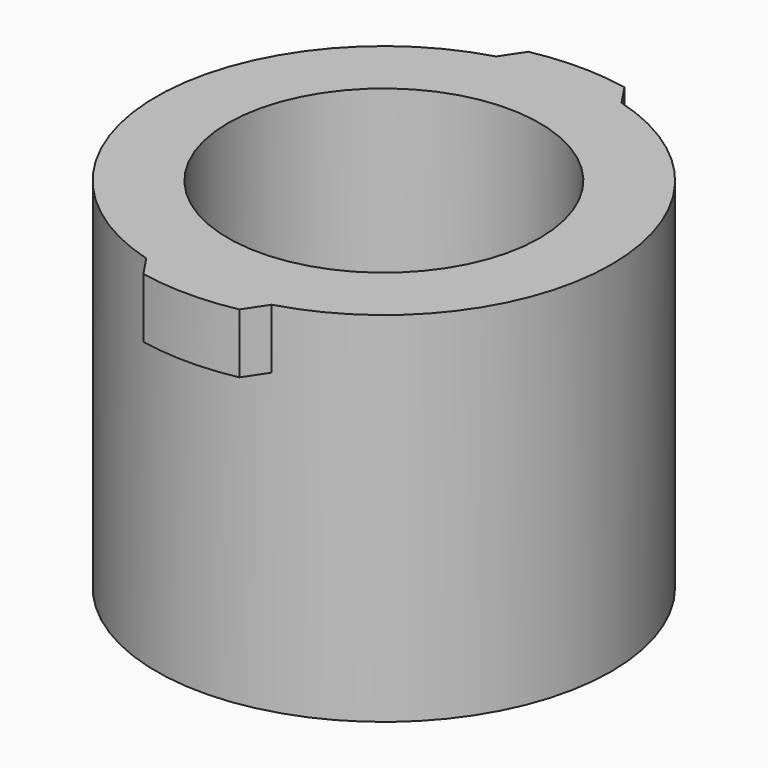
from build123d import *

# Parameters (mm, degrees)
SKETCH_R           = 12.7
SKETCH_R_2         = 8.7
PAD_DEPTH          = 20
PAD001_DEPTH       = 3.34
POLARPATTERN_COUNT = 2


with BuildPart() as part:
    # Sketch → Pad (new body)
    with BuildSketch(Plane.XY):
        Circle(SKETCH_R)
        Circle(SKETCH_R_2, mode=Mode.SUBTRACT)
    extrude(amount=PAD_DEPTH)

    # Sketch001 (on Face4 of Pad) → Pad001 (join)
    with BuildSketch(Plane.XY.offset(20)):
        with BuildLine():
            ThreePointArc((3.5, 12.208194), (0, 12.7), (-3.5, 12.208194))
            Line((-2.681395, 13.435033), (-3.5, 12.208194))
            ThreePointArc((2.681395, 13.435033), (0, 13.7), (-2.681395, 13.435033))
            Line((2.681395, 13.435033), (3.5, 12.208194))
        make_face()
    pad001 = extrude(amount=-PAD001_DEPTH)

    # PolarPattern: Pad001 ×2 about axis
    polarpattern_axis = Axis((0, 0, 20), (0, 0, 1))
    for i in range(1, POLARPATTERN_COUNT):
        add(pad001.rotate(polarpattern_axis, i * 360 / POLARPATTERN_COUNT))


solid = part.part
